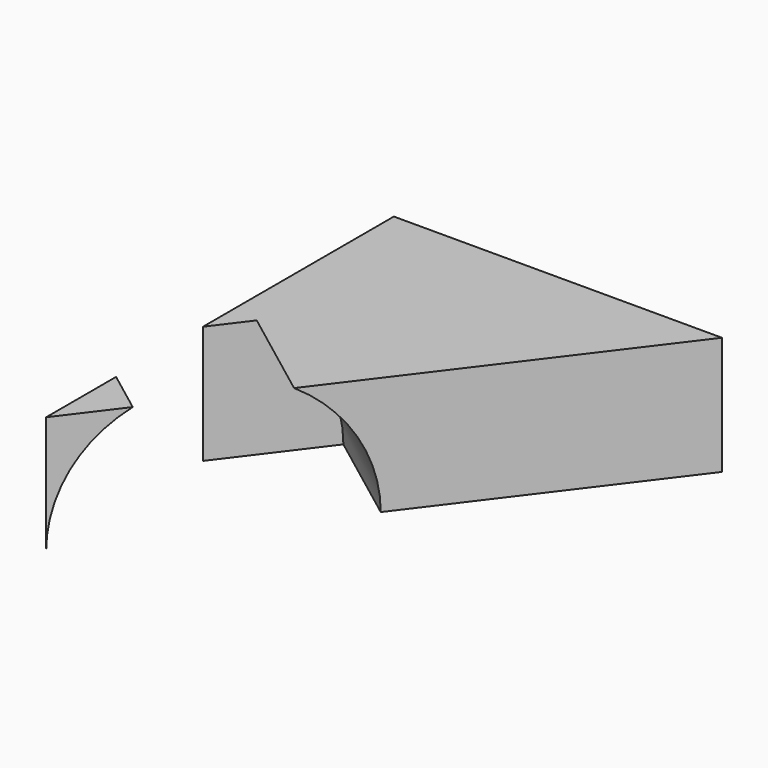
from build123d import *

# Parameters (mm, degrees)
F1_DEPTH = 25.4
F3_DEPTH = 25.4


with BuildPart() as f1:
    # F0 (on Top) → F1 (new body)
    with BuildSketch(Plane.XY):
        Polygon((0, 93.4634655714), (0, 0), (70.538379252, 93.4634655714), align=None)
    extrude(amount=F1_DEPTH)

    # F2 (on face) → F3 (cut)
    with BuildSketch(Plane(origin=(0, 0, 0), x_dir=(0.6024064416, 0.7981895007, 0), z_dir=(0.7981895007, -0.6024064416, 0))):
        with BuildLine():
            ThreePointArc((15.0145222435, 25.4), (4.0343271511, 14.75293088), (0, 0))
            Line((0, 0), (57.9835884273, 0))
            ThreePointArc((57.9835884273, 0), (53.9492612762, 14.75293088), (42.9690661838, 25.4))
            Line((42.9690661838, 25.4), (15.0145222435, 25.4))
        make_face()
        with BuildLine():
            ThreePointArc((42.9690661838, 25.4), (28.9917942137, 28.9917942137), (15.0145222435, 25.4))
            Line((15.0145222435, 25.4), (42.9690661838, 25.4))
        make_face()
        with BuildLine():
            ThreePointArc((15.0145222435, 25.4), (4.0343271511, 14.75293088), (0, 0))
            Line((0, 0), (57.9835884273, 0))
            ThreePointArc((57.9835884273, 0), (53.9492612762, 14.75293088), (42.9690661838, 25.4))
            Line((42.9690661838, 25.4), (15.0145222435, 25.4))
        make_face()
    extrude(amount=-F3_DEPTH, mode=Mode.SUBTRACT)


solid = f1.part
